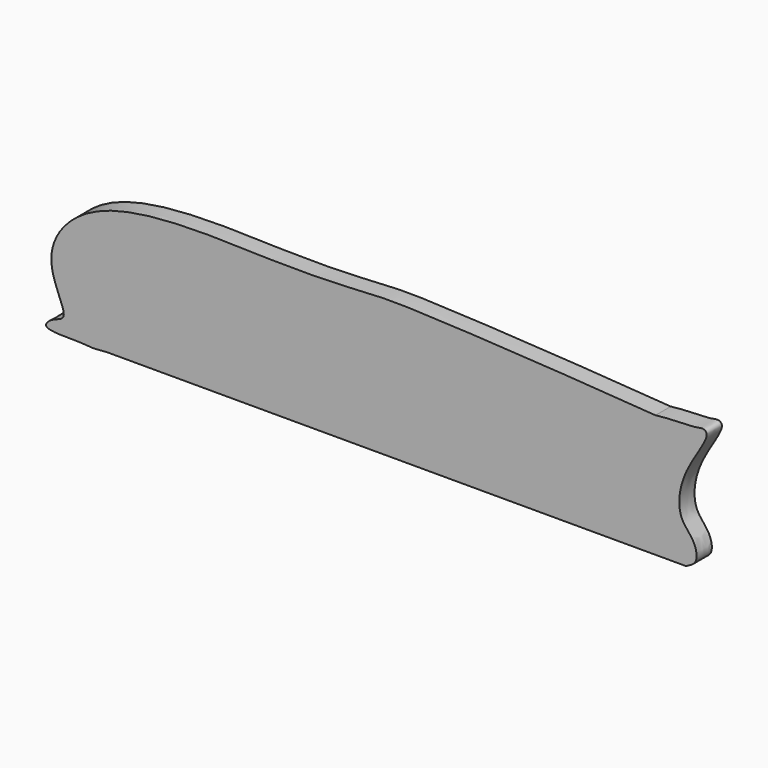
from build123d import *

# Parameters (mm, degrees)
F1_DEPTH = 5


with BuildPart() as f1:
    # F0 (on Front) → F1 (new body)
    with BuildSketch(Plane.XZ):
        with BuildLine():
            add(Edge.make_bspline(
                [(73.502403122, 31.8930708124), (63.3335166094, 32.6665615582), (44.7516874748, 33.8572887933), (27.8794639507, 34.8267206541), (4.4538941095, 36.0605779351), (-6.192790749, 35.2390372337), (-27.5582617244, 34.4248504948), (-73.5883699311, 37.5320959801), (-89.0894926531, 17.0072930166), (-79.4435980136, 3.557030298), (-84.8507268038, 2.954072367), (-88.2990164467, -0.6966362609), (-75.8117215142, 0.0260142431), (-75.0536495984, -0.8745665455), (-70.5030660327, -0.3465246759)],
                knots=[0.0176208016, 0.0176208016, 0.0176208016, 0.0176208016, 0.1238026391, 0.217228506, 0.3191164427, 0.3886723685, 0.4880609581, 0.6337921932, 0.7304702301, 0.8043599138, 0.8448041193, 0.8787246025, 0.9414504867, 1, 1, 1, 1], degree=3))
            Line((-70.5030660327, -0.3465246759), (81.535172008, -0.3465246759))
            add(Edge.make_bspline(
                [(81.535172008, -0.3465246759), (82.4308959801, 0.1386224409), (84.9039758329, 1.1059093439), (83.8144278879, 6.6321485559), (78.9958390561, 10.3346235436), (80.1029929697, 21.478034297), (88.1347138327, 31.448427778), (86.005376167, 33.1014013724), (83.4518820791, 32.169713819), (77.8286095045, 32.4489760785), (73.502403122, 31.8930708124)],
                knots=[0, 0, 0, 0, 0.0936610504, 0.2067459121, 0.331895464, 0.5064404365, 0.6881946337, 0.7492828351, 0.8292214071, 1, 1, 1, 1], degree=3))
        make_face()
    extrude(amount=F1_DEPTH)


solid = f1.part
